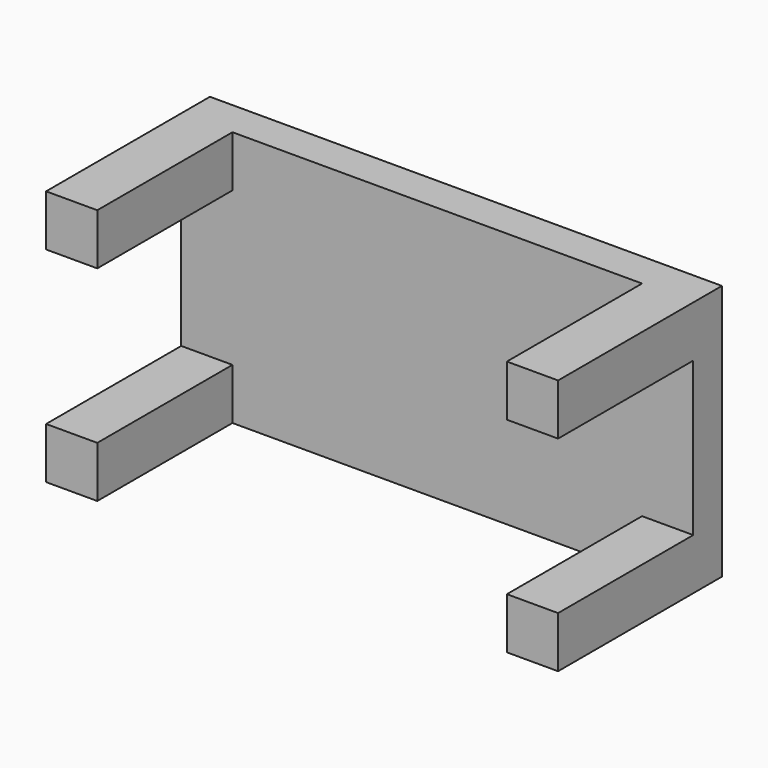
from build123d import *

# Parameters (mm, degrees)
F0_W     = 100
F0_H     = 50
F1_DEPTH = 25
F2_W     = 10
F2_H     = 10
F3_DEPTH = 15
F4_DEPTH = 18


with BuildPart() as f1:
    # F0 (on Front) → F1 (new body)
    with BuildSketch(Plane.XZ):
        with Locations((-18.900802, 25)):
            Rectangle(F0_W, F0_H)
    extrude(amount=F1_DEPTH)

    # F2 (on face) → F3 (join)
    with BuildSketch(Plane.XZ.offset(25)):
        with Locations((-63.900802, 5)):
            Rectangle(F2_W, F2_H)
        with Locations((-63.900802, 45)):
            Rectangle(F2_W, F2_H)
        with Locations((26.099198, 45)):
            Rectangle(F2_W, F2_H)
        with Locations((26.099198, 5)):
            Rectangle(F2_W, F2_H)
    extrude(amount=F3_DEPTH)

    # F1_face (on face) → F4 (cut)
    with BuildSketch(Plane(origin=(-18.900802, -25, 25), x_dir=(1, 0, 0), z_dir=(0, -1, 0))):
        Polygon((40, 15), (40, 25), (-40, 25), (-40, 15), (-50, 15), (-50, -15), (-40, -15), (-40, -25), (40, -25), (40, -15), (50, -15), (50, 15), align=None)
    extrude(amount=-F4_DEPTH, mode=Mode.SUBTRACT)


solid = f1.part
